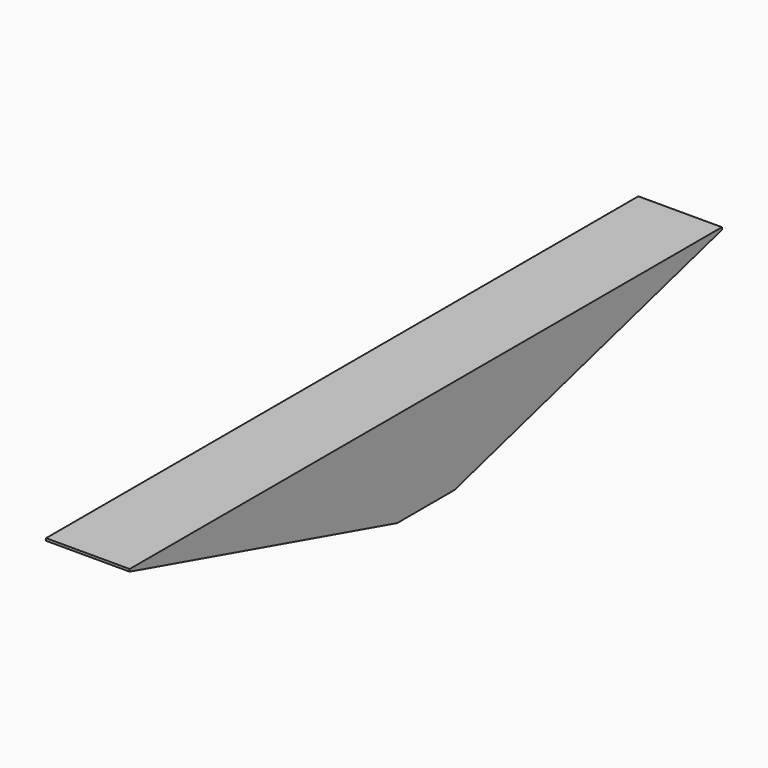
from build123d import *

# Parameters (mm, degrees)
BOX133_W           = 3.5
BOX133_H           = 31
BOX133_DEPTH       = 4
CHAMFER022_1_SIZE2 = 14
CHAMFER022_1_SIZE  = 3.9
CHAMFER022_2_SIZE2 = 14
CHAMFER022_2_SIZE  = 3.9


with BuildPart() as part:
    # Box133 → Box133 (new body)
    with BuildSketch(Plane(origin=(26, -16.5, 6), x_dir=(1, 0, 0), z_dir=(0, 0, 1))):
        with Locations((1.75, 15.5)):
            Rectangle(BOX133_W, BOX133_H)
    extrude(amount=BOX133_DEPTH)

    # Chamfer022 1
    chamfer022_1_edges = [part.edges().sort_by_distance(p)[0] for p in [
        (27.75, 14.5, 6),
    ]]
    chamfer022_1_side = part.faces().sort_by_distance((27.75, 14.5, 8))[0]
    chamfer(chamfer022_1_edges, length=CHAMFER022_1_SIZE, length2=CHAMFER022_1_SIZE2, reference=chamfer022_1_side)

    # Chamfer022 2
    chamfer022_2_edges = [part.edges().sort_by_distance(p)[0] for p in [
        (27.75, -16.5, 6),
    ]]
    chamfer022_2_side = part.faces().sort_by_distance((27.75, -16.5, 8))[0]
    chamfer(chamfer022_2_edges, length=CHAMFER022_2_SIZE, length2=CHAMFER022_2_SIZE2, reference=chamfer022_2_side)


with BuildPart() as part_1:
    # Chamfer022 placement: moved
    add(part.part.moved(Location((0, 1, -1))))


solid = part_1.part
